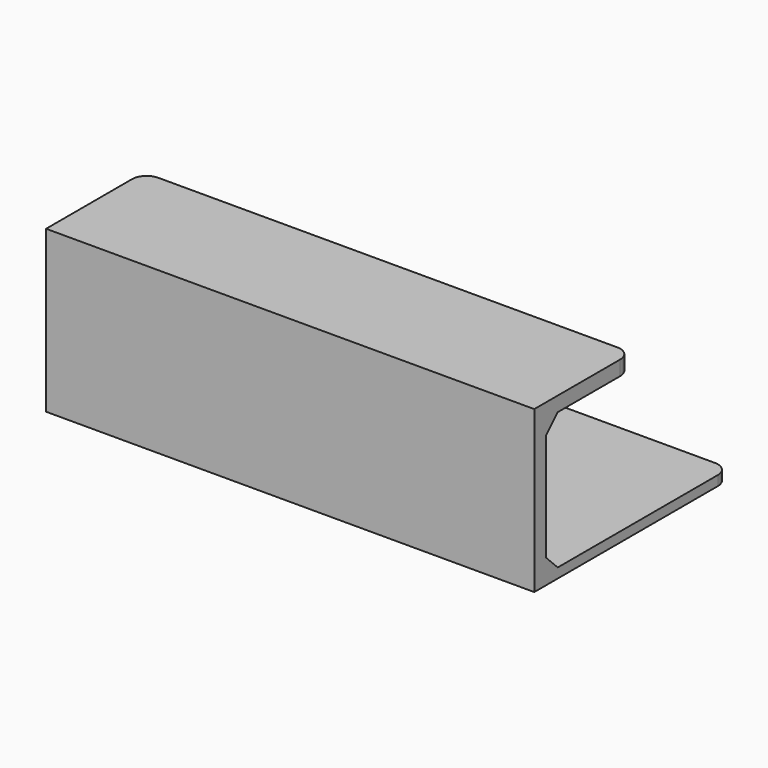
from build123d import *

# Parameters (mm, degrees)
SKETCH_W     = 100
SKETCH_H     = 50
PAD_DEPTH    = 2
SKETCH001_W  = 100
SKETCH001_H  = 25
PAD001_DEPTH = 31
SKETCH002_W  = 26
SKETCH002_H  = 28
POCKET_DEPTH = 100
CHAMFER_SIZE = 3
FILLET_R     = 3


with BuildPart() as part:
    # Sketch → Pad (new body)
    with BuildSketch(Plane.XY):
        Rectangle(SKETCH_W, SKETCH_H)
    extrude(amount=PAD_DEPTH)

    # Sketch001 (on Face6 of Pad) → Pad001 (join)
    with BuildSketch(Plane.XY.offset(2)):
        with Locations((0, -12.5)):
            Rectangle(SKETCH001_W, SKETCH001_H)
    extrude(amount=PAD001_DEPTH)

    # Sketch002 (on Face8 of Pad001) → Pocket (cut)
    with BuildSketch(Plane.YZ.offset(50)):
        with Locations((-9, 16)):
            Rectangle(SKETCH002_W, SKETCH002_H)
    extrude(amount=-POCKET_DEPTH, mode=Mode.SUBTRACT)

    # Chamfer
    chamfer_edges = [part.edges().sort_by_distance(p)[0] for p in [
        (0, -22, 2),
        (0, -22, 30),
    ]]
    chamfer(chamfer_edges, length=CHAMFER_SIZE)

    # Fillet
    fillet_edges = [part.edges().sort_by_distance(p)[0] for p in [
        (50, 25, 1),
        (-50, 25, 1),
        (-50, 0, 31.5),
        (50, 0, 31.5),
    ]]
    fillet(fillet_edges, radius=FILLET_R)


solid = part.part
